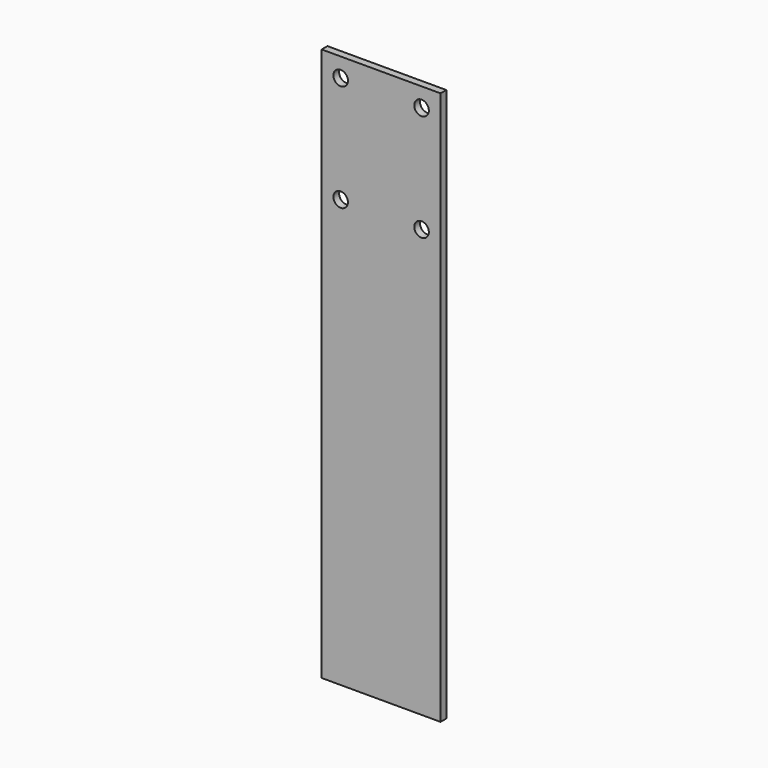
from build123d import *

# Parameters (mm, degrees)
F0_W     = 78.187594
F0_H     = 363.826307
F2_DEPTH = 4.76
F1_R     = 4.8
F3_DEPTH = 4.761


with BuildPart() as f2:
    # F0 (on Front) → F2 (new body)
    with BuildSketch(Plane.XZ):
        with Locations((-8.985267, -128.433061)):
            Rectangle(F0_W, F0_H)
    extrude(amount=F2_DEPTH)

    # F1 (on Front) → F3 (cut, through all)
    with BuildSketch(Plane.XZ):
        with Locations((-35.579064, 40.980092)):
            Circle(F1_R)
        with Locations((17.60853, 40.980092)):
            Circle(F1_R)
        with Locations((17.60853, -29.366215)):
            Circle(F1_R)
        with Locations((-35.579064, -29.366215)):
            Circle(F1_R)
    extrude(amount=F3_DEPTH, mode=Mode.SUBTRACT)


solid = f2.part
